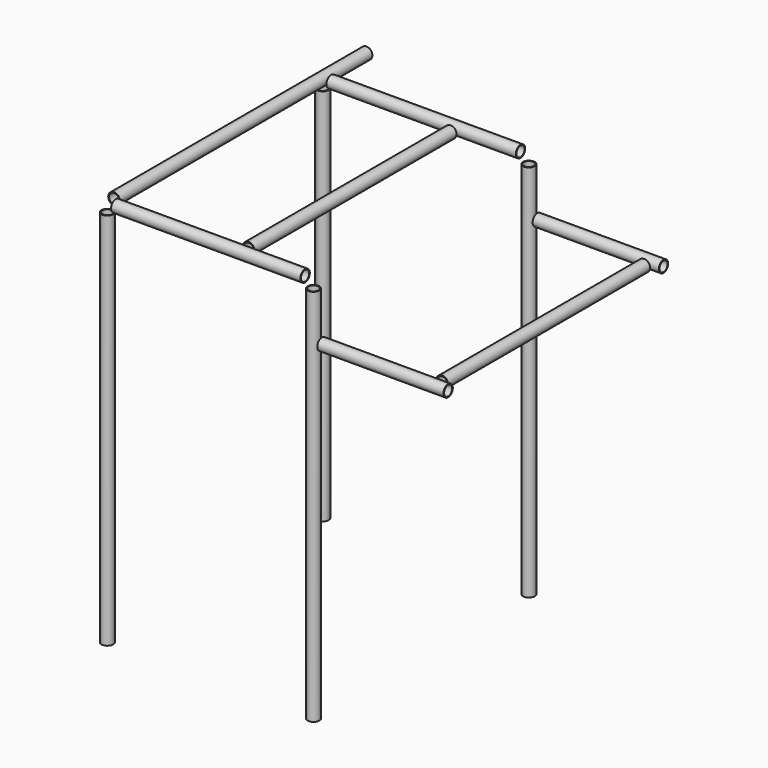
from build123d import *

# Parameters (mm, degrees)
F0_R          = 14
F0_R_2        = 12.05
F1_DEPTH      = 880
F1_DEPTH_BACK = 20
F3_START      = -20
F2_R          = 14
F2_R_2        = 12.05
F3_DEPTH      = 600
F5_START      = -20
F4_R          = 14
F4_R_2        = 12.05
F5_DEPTH      = 450
F7_START      = 20
F6_R          = 13.8800494928
F6_R_2        = 11.9467568849
F7_DEPTH      = 300
F8_DEPTH      = 150


with BuildPart() as f1:
    # F0 (on Top) → F1 (new body, two sides)
    with BuildSketch(Plane.XY) as f1_sk:
        Circle(F0_R)
        Circle(F0_R_2, mode=Mode.SUBTRACT)
    extrude(amount=F1_DEPTH)
    extrude(f1_sk.sketch, amount=-F1_DEPTH_BACK)


with BuildPart() as f1b:
    # F0 (on Top) → F1, piece 2 (new body, two sides)
    with BuildSketch(Plane.XY) as f1_2_sk:
        with Locations((0, 640)):
            Circle(F0_R)
        with Locations((0, 640)):
            Circle(F0_R_2, mode=Mode.SUBTRACT)
    extrude(amount=F1_DEPTH)
    extrude(f1_2_sk.sketch, amount=-F1_DEPTH_BACK)


with BuildPart() as f1c:
    # F0 (on Top) → F1, piece 3 (new body, two sides)
    with BuildSketch(Plane.XY) as f1_3_sk:
        with Locations((-490, 0)):
            Circle(F0_R)
        with Locations((-490, 0)):
            Circle(F0_R_2, mode=Mode.SUBTRACT)
    extrude(amount=F1_DEPTH)
    extrude(f1_3_sk.sketch, amount=-F1_DEPTH_BACK)


with BuildPart() as f1d:
    # F0 (on Top) → F1, piece 4 (new body, two sides)
    with BuildSketch(Plane.XY) as f1_4_sk:
        with Locations((-490, 640)):
            Circle(F0_R)
        with Locations((-490, 640)):
            Circle(F0_R_2, mode=Mode.SUBTRACT)
    extrude(amount=F1_DEPTH)
    extrude(f1_4_sk.sketch, amount=-F1_DEPTH_BACK)


with BuildPart() as f3:
    # F2 (on Front) → F3 (new body)
    with BuildSketch(Plane.XZ.offset(F3_START)):
        with Locations((290, 770)):
            Circle(F2_R)
        with Locations((290, 770)):
            Circle(F2_R_2, mode=Mode.SUBTRACT)
    extrude(amount=-F3_DEPTH)


with BuildPart() as f3b:
    # F2 (on Front) → F3, piece 2 (new body)
    with BuildSketch(Plane.XZ.offset(F3_START)):
        with Locations((-170, 900)):
            Circle(F2_R)
        with Locations((-170, 900)):
            Circle(F2_R_2, mode=Mode.SUBTRACT)
    extrude(amount=-F3_DEPTH)


with BuildPart() as f3c:
    # F2 (on Front) → F3, piece 3 (new body)
    with BuildSketch(Plane.XZ.offset(F3_START)):
        with Locations((-490, 900)):
            Circle(F2_R)
        with Locations((-490, 900)):
            Circle(F2_R_2, mode=Mode.SUBTRACT)
    extrude(amount=-F3_DEPTH)

    # F8 (add): a face of the model
    f8_faces = [f3c.faces().sort_by_distance(p)[0] for p in [
        (-503.6040202025, 620, 900),
    ]]
    extrude(f8_faces, amount=F8_DEPTH)


with BuildPart() as f5:
    # F4 (on Right) → F5 (new body)
    with BuildSketch(Plane.YZ.offset(F5_START)):
        with Locations((640, 900)):
            Circle(F4_R)
        with Locations((640, 900)):
            Circle(F4_R_2, mode=Mode.SUBTRACT)
    extrude(amount=-F5_DEPTH)


with BuildPart() as f5b:
    # F4 (on Right) → F5, piece 2 (new body)
    with BuildSketch(Plane.YZ.offset(F5_START)):
        with Locations((0, 900)):
            Circle(F4_R)
        with Locations((0, 900)):
            Circle(F4_R_2, mode=Mode.SUBTRACT)
    extrude(amount=-F5_DEPTH)


with BuildPart() as f7:
    # F6 (on Right) → F7 (new body)
    with BuildSketch(Plane.YZ.offset(F7_START)):
        with Locations((0, 770)):
            Circle(F6_R)
        with Locations((0, 770)):
            Circle(F6_R_2, mode=Mode.SUBTRACT)
    extrude(amount=F7_DEPTH)


with BuildPart() as f7b:
    # F6 (on Right) → F7, piece 2 (new body)
    with BuildSketch(Plane.YZ.offset(F7_START)):
        with Locations((640, 770)):
            Circle(F6_R)
        with Locations((640, 770)):
            Circle(F6_R_2, mode=Mode.SUBTRACT)
    extrude(amount=F7_DEPTH)


solid = Compound([f1.part, f1b.part, f1c.part, f1d.part, f3.part, f3b.part, f3c.part, f5.part, f5b.part, f7.part, f7b.part])
